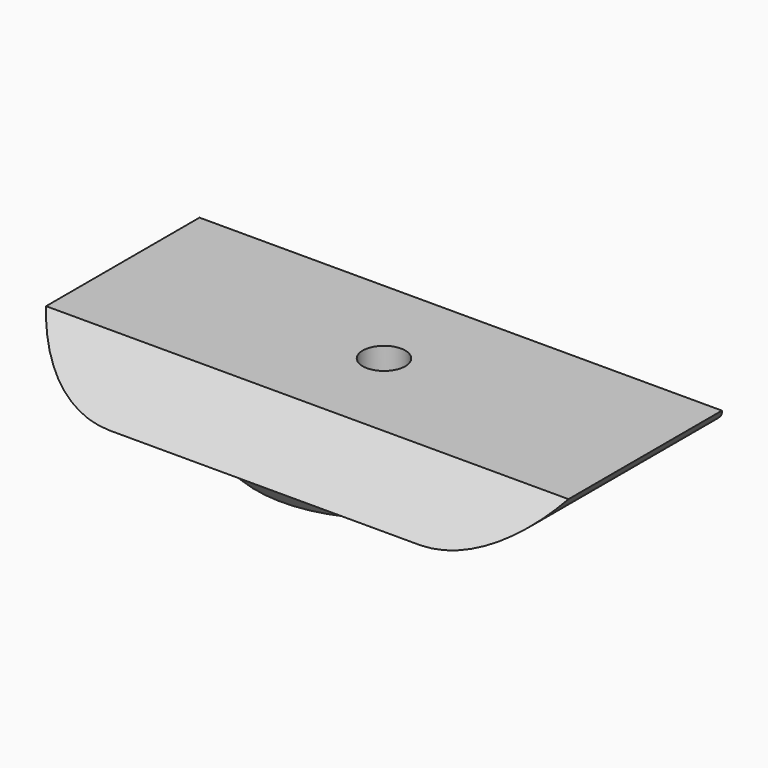
from build123d import *

# Parameters (mm, degrees)
PAD_DEPTH       = 28
SKETCH001_R     = 14
SKETCH001_R_2   = 10
PAD001_DEPTH    = 2
CHAMFER_SIZE    = 1.9999
CHAMFER001_SIZE = 4.9999
SKETCH002_R     = 2
POCKET_DEPTH    = 10


with BuildPart() as part:
    # Sketch → Pad (new body)
    with BuildSketch(Plane.XZ):
        with BuildLine():
            ThreePointArc((-10, -7.5), (-5.59017, -11.18034), (0, -12.5))
            Line((0, -12.5), (29.04, -12.5))
            ThreePointArc((29.04, -12.5), (34.63017, -11.18034), (39.04, -7.5))
            Line((-10, -7.5), (39.04, -7.5))
        make_face()
    extrude(amount=PAD_DEPTH)

    # Sketch001 (on Face2 of Pad) → Pad001 (join)
    with BuildSketch(Plane(origin=(0, 0, -12.5), x_dir=(1, 0, 0), z_dir=(0, 0, -1))):
        with Locations((14.52, 14)):
            Circle(SKETCH001_R)
        with Locations((14.52, 14)):
            Circle(SKETCH001_R_2, mode=Mode.SUBTRACT)
    extrude(amount=PAD001_DEPTH)

    # Chamfer
    chamfer_edges = [part.edges().sort_by_distance(p)[0] for p in [
        (0.52, -14, -14.5),
    ]]
    chamfer(chamfer_edges, length=CHAMFER_SIZE)

    # Chamfer001
    chamfer001_edges = [part.edges().sort_by_distance(p)[0] for p in [
        (14.52, 0, -7.5),
        (14.52, -28, -7.5),
    ]]
    chamfer(chamfer001_edges, length=CHAMFER001_SIZE)

    # Sketch002 (on Face14 of Chamfer001) → Pocket (cut)
    with BuildSketch(Plane(origin=(0, 0, -12.5), x_dir=(1, 0, 0), z_dir=(0, 0, -1))):
        with Locations((14.52, 14)):
            Circle(SKETCH002_R)
    extrude(amount=-POCKET_DEPTH, mode=Mode.SUBTRACT)


solid = part.part
